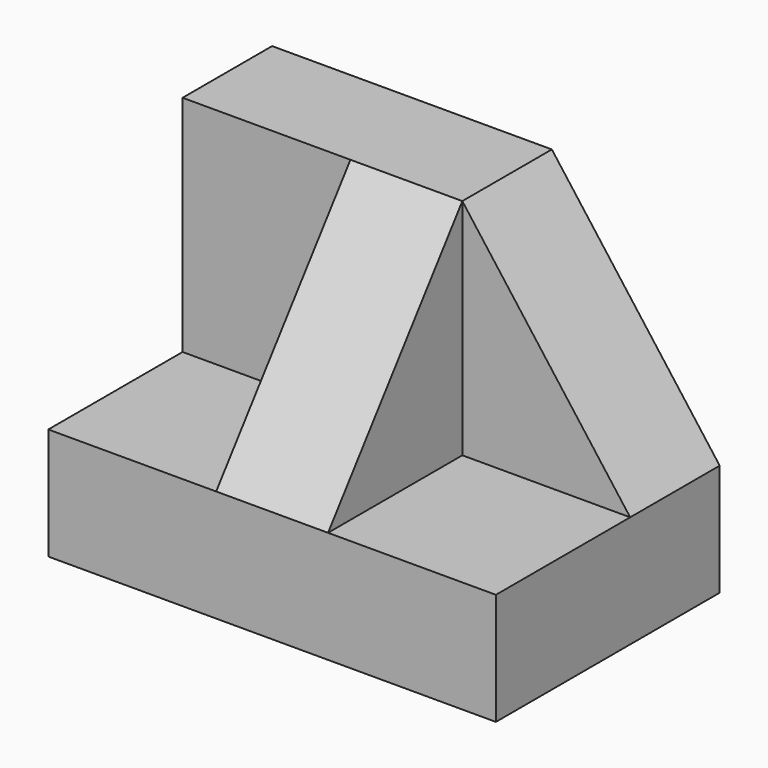
from build123d import *

# Parameters (mm, degrees)
F0_W      = 50.8
F0_H      = 38.1
F1_DEPTH  = 31.75
F3_DEPTH  = 31.75
F5_DEPTH  = 31.75
F7_DEPTH  = 19.05
F9_DEPTH  = 19.05
F11_DEPTH = 12.7
F13_DEPTH = 12.7


with BuildPart() as f1:
    # F0 (on Front) → F1 (new body)
    with BuildSketch(Plane.XZ):
        with Locations((25.4, 19.05)):
            Rectangle(F0_W, F0_H)
    extrude(amount=F1_DEPTH)

    # F2 (on face) → F3 (cut)
    with BuildSketch(Plane.XZ.offset(31.75)):
        Polygon((50.8, 38.1), (31.75, 38.1), (50.8, 12.7), align=None)
    extrude(amount=-F3_DEPTH, mode=Mode.SUBTRACT)

    # F4 (on face) → F5 (cut)
    with BuildSketch(Plane.XZ.offset(31.75)):
        Polygon((0, 12.7), (19.05, 38.1), (0, 38.1), align=None)
    extrude(amount=-F5_DEPTH, mode=Mode.SUBTRACT)

    # F6 (on face) → F7 (cut)
    with BuildSketch(Plane.XZ.offset(31.75)):
        Polygon((31.75, 12.7), (50.8, 12.7), (31.75, 38.1), align=None)
    extrude(amount=-F7_DEPTH, mode=Mode.SUBTRACT)

    # F8 (on face) → F9 (cut)
    with BuildSketch(Plane.XZ.offset(31.75)):
        Polygon((19.05, 38.1), (0, 12.7), (19.05, 12.7), align=None)
    extrude(amount=-F9_DEPTH, mode=Mode.SUBTRACT)

    # F10 (on face) → F11 (join)
    with BuildSketch(Plane(origin=(0, 0, 0), x_dir=(-1, 0, 0), z_dir=(0, 1, 0))):
        Polygon((0, 38.1), (-19.05, 38.1), (0, 12.7), align=None)
    extrude(amount=-F11_DEPTH)

    # F12 (on face) → F13 (cut)
    with BuildSketch(Plane(origin=(19.05, 0, 0), x_dir=(0, -1, 0), z_dir=(-1, 0, 0))):
        Polygon((31.75, 38.1), (12.7, 38.1), (31.75, 12.7), align=None)
    extrude(amount=-F13_DEPTH, mode=Mode.SUBTRACT)


solid = f1.part
